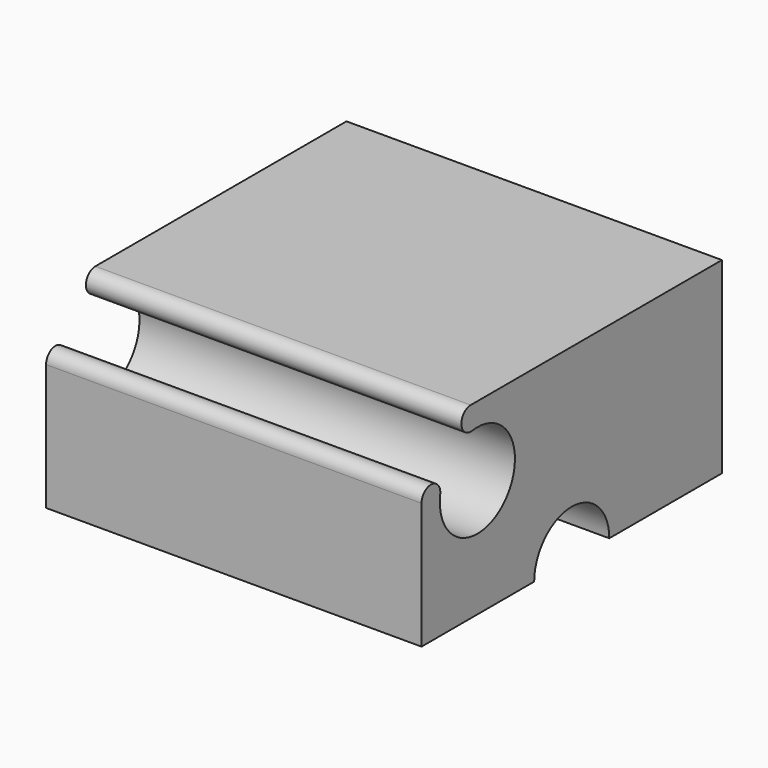
from build123d import *

# Parameters (mm, degrees)
F1_DEPTH = 25.4


with BuildPart() as f1:
    # F0 (on Right) → F1 (new body, symmetric)
    with BuildSketch(Plane.YZ):
        with BuildLine():
            ThreePointArc((-0.898026, 6.286179), (4.490128, -4.490128), (-6.286179, 0.898026))
            ThreePointArc((-6.286179, 0.898026), (-7.745188, 2.706038), (-9.445224, 1.122532))
            Line((-9.445224, 1.122532), (-9.445224, -15.954776))
            Line((-9.445224, -15.954776), (9.604776, -15.954776))
            ThreePointArc((9.604776, -15.954776), (15.954776, -9.604776), (22.304776, -15.954776))
            Line((22.304776, -15.954776), (41.354776, -15.954776))
            Line((41.354776, -15.954776), (41.354776, 9.445224))
            Line((41.354776, 9.445224), (-1.122532, 9.445224))
            ThreePointArc((-1.122532, 9.445224), (-2.706038, 7.745188), (-0.898026, 6.286179))
        make_face()
    extrude(amount=F1_DEPTH, both=True)


solid = f1.part
